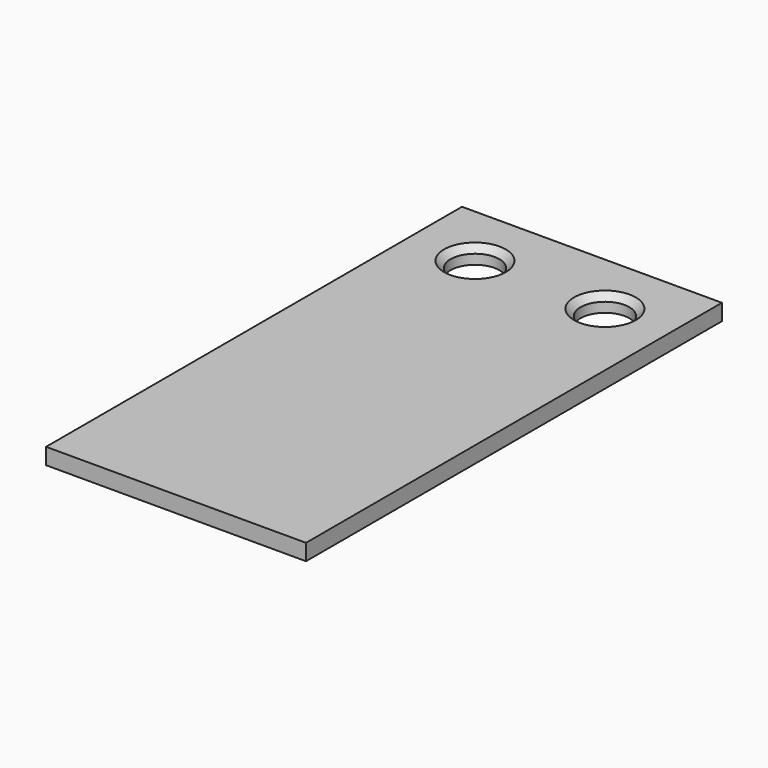
from build123d import *

# Parameters (mm, degrees)
F0_R     = 9.525
F1_DEPTH = 6.35
F2_SIZE  = 2.54


with BuildPart() as f1:
    # F0 (on Top) → F1 (new body)
    with BuildSketch(Plane.XY):
        Polygon((50.8, 101.6), (-50.8, 101.6), (-50.8, 0), (-50.8, -101.6), (50.8, -101.6), (50.8, 0), align=None)
        with Locations((-25.4, 76.2)):
            Circle(F0_R, mode=Mode.SUBTRACT)
        with Locations((25.4, 76.2)):
            Circle(F0_R, mode=Mode.SUBTRACT)
    extrude(amount=F1_DEPTH)

    # F2
    f2_edges = [f1.edges().sort_by_distance(p)[0] for p in [
        (-34.925, 76.2, 6.35),
        (15.875, 76.2, 6.35),
    ]]
    chamfer(f2_edges, length=F2_SIZE)


solid = f1.part
